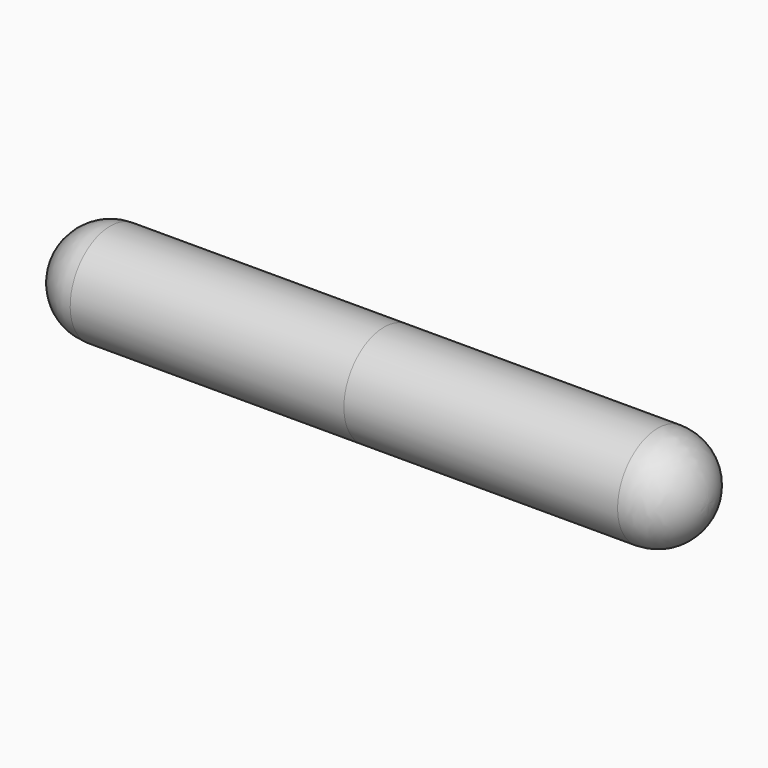
from build123d import *

# Parameters (mm, degrees)
F3_SIZE = 7.5
F4_SIZE = 7.5


with BuildPart() as f1:
    # F0 (on Front) → F1 (revolve)
    with BuildSketch(Plane.XZ):
        with BuildLine():
            Line((10, 9.5), (10, 7.5))
            Line((10, 7.5), (60, 7.5))
            Line((60, 7.5), (60, 0))
            Line((60, 0), (71, 0))
            ThreePointArc((71, 0), (67.778175, 7.778175), (60, 11))
            Line((60, 11), (0, 11))
            Line((0, 11), (0, 9.5))
            Line((0, 9.5), (10, 9.5))
        make_face()
    revolve(axis=Axis((-30, 0, 0), (1, 0, 0)))

    # F4
    f4_edges = [f1.edges().sort_by_distance(p)[0] for p in [
        (60, 0, -7.5),
    ]]
    chamfer(f4_edges, length=F4_SIZE)


with BuildPart() as f2:
    # F0 (on Front) → F2 (revolve)
    with BuildSketch(Plane.XZ):
        Polygon((-60, 7.5), (0, 7.5), (10, 7.5), (10, 9.5), (0, 9.5), (0, 11), (-60, 11), align=None)
        with BuildLine():
            Line((-60, 0), (-60, 7.5))
            Line((-60, 7.5), (-60, 11))
            ThreePointArc((-60, 11), (-67.778175, 7.778175), (-71, 0))
            Line((-71, 0), (-60, 0))
        make_face()
    revolve(axis=Axis((-30, 0, 0), (1, 0, 0)))

    # F3
    f3_edges = [f2.edges().sort_by_distance(p)[0] for p in [
        (-60, 0, -7.5),
    ]]
    chamfer(f3_edges, length=F3_SIZE)


solid = Compound([f1.part, f2.part])
